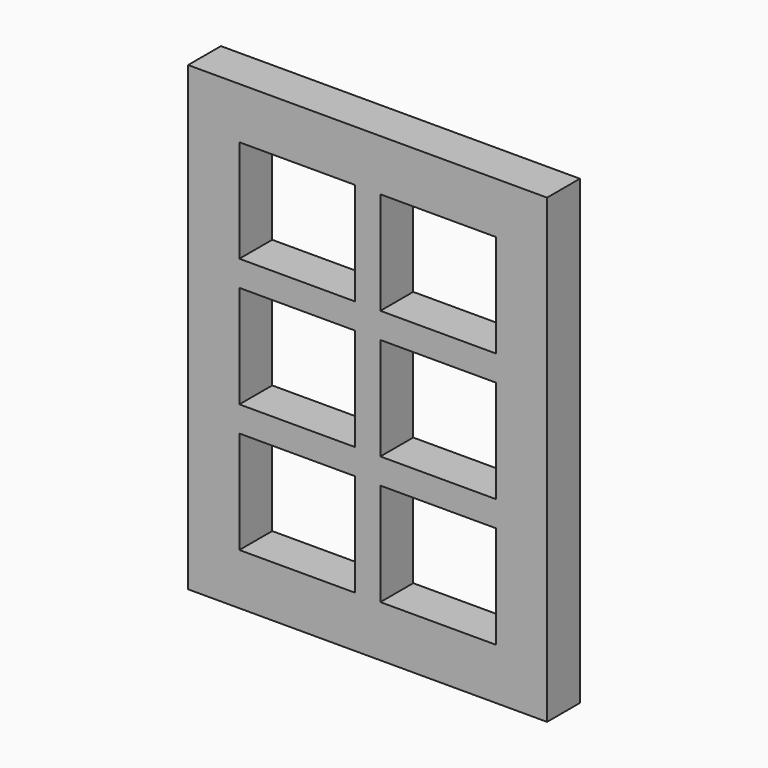
from build123d import *

# Parameters (mm, degrees)
SKETCH_W     = 7
SKETCH_H     = 9
PAD_DEPTH    = 0.8
SKETCH001_W  = 2.25
SKETCH001_H  = 2
POCKET_DEPTH = 5


with BuildPart() as part:
    # Sketch → Pad (new body)
    with BuildSketch(Plane.XZ):
        Rectangle(SKETCH_W, SKETCH_H)
    extrude(amount=PAD_DEPTH)

    # Sketch001 (on Face6 of Pad) → Pocket (cut)
    with BuildSketch(Plane.XZ.offset(0.8)):
        with Locations((-1.375, 2.5)):
            Rectangle(SKETCH001_W, SKETCH001_H)
        with Locations((-1.375, 0)):
            Rectangle(SKETCH001_W, SKETCH001_H)
        with Locations((-1.375, -2.5)):
            Rectangle(SKETCH001_W, SKETCH001_H)
        with Locations((1.375, 2.5)):
            Rectangle(SKETCH001_W, SKETCH001_H)
        with Locations((1.375, 0)):
            Rectangle(SKETCH001_W, SKETCH001_H)
        with Locations((1.375, -2.5)):
            Rectangle(SKETCH001_W, SKETCH001_H)
    extrude(amount=-POCKET_DEPTH, mode=Mode.SUBTRACT)


solid = part.part
